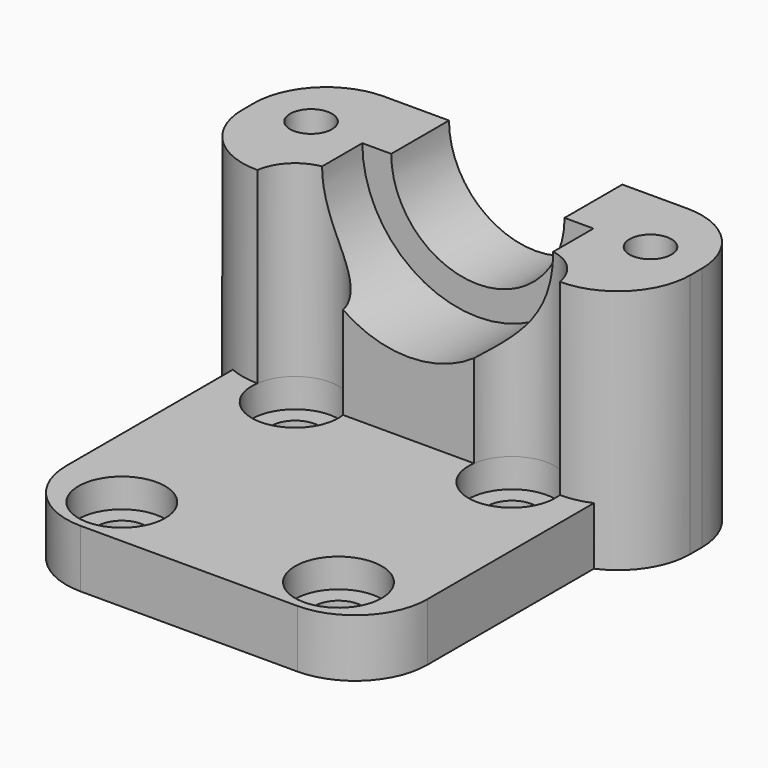
from build123d import *

# Parameters (mm, degrees)
F0_W      = 25
F0_H      = 30
F1_DEPTH  = 4
F2_R      = 1.675
F3_DEPTH  = 25
F4_W      = 25
F4_H      = 11
F5_DEPTH  = 13
F7_DEPTH  = 6
F8_R      = 8
F9_DEPTH  = 6
F2_R_2    = 3
F10_DEPTH = 2
F11_W     = 11
F11_H     = 17
F12_DEPTH = 3
F13_R     = 5
F14_W     = 11
F14_H     = 17
F15_DEPTH = 3
F16_R     = 1.45
F17_DEPTH = 25
F18_R     = 5
F19_DEPTH = 25


with BuildPart() as f1:
    # F0 (on Top) → F1 (new body)
    with BuildSketch(Plane.XY):
        with Locations((12.5, 15)):
            Rectangle(F0_W, F0_H)
    extrude(amount=F1_DEPTH)

    # F2 (on face) → F3 (cut)
    with BuildSketch(Plane.XY.offset(4)):
        with BuildLine():
            ThreePointArc((3.325, 18.5605346784), (5, 16.8855346784), (6.675, 18.5605346784))
            ThreePointArc((6.675, 18.5605346784), (5, 20.2355346784), (3.325, 18.5605346784))
        make_face()
        with Locations((20, 18.5605346784)):
            Circle(F2_R)
        with Locations((20, 3.5605346784)):
            Circle(F2_R)
        with Locations((5, 3.5605346784)):
            Circle(F2_R)
    extrude(amount=-F3_DEPTH, mode=Mode.SUBTRACT)

    # F4 (on face) → F5 (join)
    with BuildSketch(Plane.XY.offset(4)):
        with Locations((12.5, 24.5)):
            Rectangle(F4_W, F4_H)
    extrude(amount=F5_DEPTH)

    # F6 (on face) → F7 (cut)
    with BuildSketch(Plane(origin=(0, 30, 0), x_dir=(-1, 0, 0), z_dir=(0, 1, 0))):
        with BuildLine():
            ThreePointArc((-18.5, 17), (-12.5, 11), (-6.5, 17))
            Line((-6.5, 17), (-18.5, 17))
        make_face()
    extrude(amount=-F7_DEPTH, mode=Mode.SUBTRACT)

    # F8 (on face) → F9 (cut)
    with BuildSketch(Plane.XZ.offset(-19)):
        with Locations((12.5, 17)):
            Circle(F8_R)
    extrude(amount=-F9_DEPTH, mode=Mode.SUBTRACT)

    # F2 (on face) → F10 (cut)
    with BuildSketch(Plane.XY.offset(4)):
        with BuildLine():
            ThreePointArc((8, 18.5605346784), (5, 21.5605346784), (2, 18.5605346784))
            ThreePointArc((2, 18.5605346784), (5, 15.5605346784), (8, 18.5605346784))
        make_face()
        with BuildLine():
            ThreePointArc((3.325, 18.5605346784), (5, 20.2355346784), (6.675, 18.5605346784))
            ThreePointArc((6.675, 18.5605346784), (5, 16.8855346784), (3.325, 18.5605346784))
        make_face(mode=Mode.SUBTRACT)
        with Locations((20, 18.5605346784)):
            Circle(F2_R_2)
        with Locations((20, 18.5605346784)):
            Circle(F2_R, mode=Mode.SUBTRACT)
        with Locations((20, 3.5605346784)):
            Circle(F2_R_2)
        with Locations((20, 3.5605346784)):
            Circle(F2_R, mode=Mode.SUBTRACT)
        with Locations((5, 3.5605346784)):
            Circle(F2_R_2)
        with Locations((5, 3.5605346784)):
            Circle(F2_R, mode=Mode.SUBTRACT)
    extrude(amount=-F10_DEPTH, mode=Mode.SUBTRACT)

    # F11 (on face) → F12 (join)
    with BuildSketch(Plane(origin=(0, 0, 0), x_dir=(0, -1, 0), z_dir=(-1, 0, 0))):
        with Locations((-24.5, 8.5)):
            Rectangle(F11_W, F11_H)
    extrude(amount=F12_DEPTH)

    # F13
    f13_edges = [f1.edges().sort_by_distance(p)[0] for p in [
        (0, 0, 2),
        (25, 0, 2),
    ]]
    fillet(f13_edges, radius=F13_R)

    # F14 (on face) → F15 (join)
    with BuildSketch(Plane.YZ.offset(25)):
        with Locations((24.5, 8.5)):
            Rectangle(F14_W, F14_H)
    extrude(amount=F15_DEPTH)

    # F16 (on face) → F17 (cut)
    with BuildSketch(Plane.XY.offset(17)):
        with Locations((0.7500000062, 25.25)):
            Circle(F16_R)
        with Locations((24.2500000062, 25.25)):
            Circle(F16_R)
    extrude(amount=-F17_DEPTH, mode=Mode.SUBTRACT)

    # F18
    f18_edges = [f1.edges().sort_by_distance(p)[0] for p in [
        (-3, 19, 8.5),
        (28, 19, 8.5),
        (28, 30, 8.5),
        (-3, 30, 8.5),
    ]]
    fillet(f18_edges, radius=F18_R)

    # F2 (on face) → F19 (cut)
    with BuildSketch(Plane.XY.offset(4)):
        with BuildLine():
            ThreePointArc((8, 18.5605346784), (5, 21.5605346784), (2, 18.5605346784))
            ThreePointArc((2, 18.5605346784), (5, 15.5605346784), (8, 18.5605346784))
        make_face()
        with BuildLine():
            ThreePointArc((3.325, 18.5605346784), (5, 20.2355346784), (6.675, 18.5605346784))
            ThreePointArc((6.675, 18.5605346784), (5, 16.8855346784), (3.325, 18.5605346784))
        make_face(mode=Mode.SUBTRACT)
        with Locations((20, 18.5605346784)):
            Circle(F2_R_2)
        with Locations((20, 18.5605346784)):
            Circle(F2_R, mode=Mode.SUBTRACT)
        with BuildLine():
            ThreePointArc((3.325, 18.5605346784), (5, 16.8855346784), (6.675, 18.5605346784))
            ThreePointArc((6.675, 18.5605346784), (5, 20.2355346784), (3.325, 18.5605346784))
        make_face()
        with Locations((20, 18.5605346784)):
            Circle(F2_R)
    extrude(amount=F19_DEPTH, mode=Mode.SUBTRACT)


solid = f1.part
